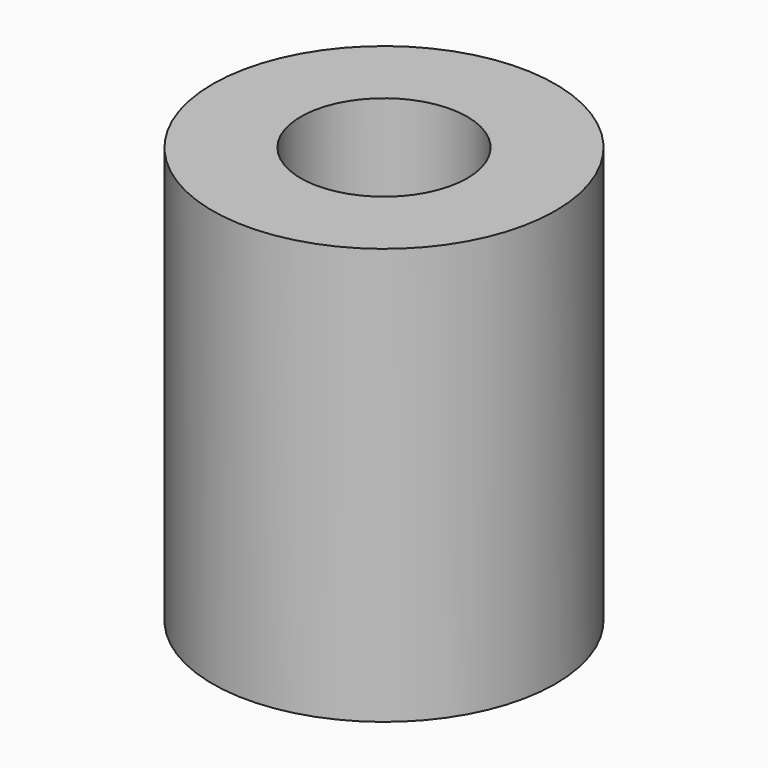
from build123d import *

# Parameters (mm, degrees)
CYLINDER031_R     = 1.7
CYLINDER031_DEPTH = 8.5
CYLINDER030_R     = 3.5
CYLINDER030_DEPTH = 8.5


with BuildPart() as cylinder031:
    # Cylinder031 → Cylinder031 (new body)
    with BuildSketch(Plane.XY):
        Circle(CYLINDER031_R)
    extrude(amount=CYLINDER031_DEPTH)


with BuildPart() as bottom_spacer:
    # Cylinder030 → Cylinder030 (new body)
    with BuildSketch(Plane.XY):
        Circle(CYLINDER030_R)
    extrude(amount=CYLINDER030_DEPTH)

    # Cut028006004005011004003001010002019: cut Cylinder031
    add(cylinder031.part, mode=Mode.SUBTRACT)


solid = bottom_spacer.part
